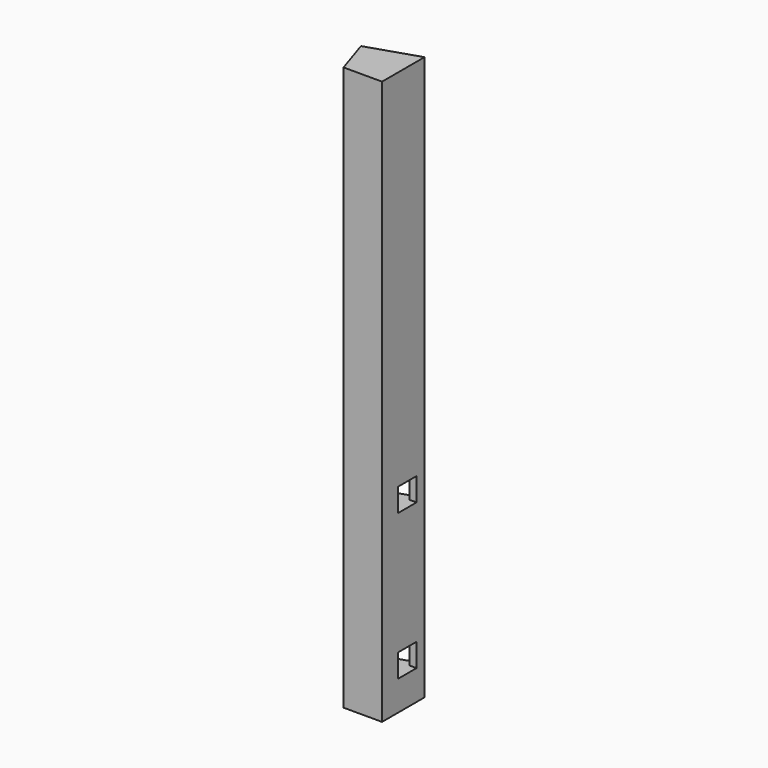
from build123d import *

# Parameters (mm, degrees)
F1_DEPTH = 85
F2_W     = 3.5
F2_H     = 3.5
F3_DEPTH = 3.5
F4_W     = 3.5
F4_H     = 3.5
F5_DEPTH = 3.5


with BuildPart() as f1:
    # F0 (on Top) → F1 (new body)
    with BuildSketch(Plane.XY):
        Polygon((-25, -42.409548), (-25, -34.409548), (-32.608452, -36.881684), (-30.81234, -42.409548), align=None)
    extrude(amount=F1_DEPTH)

    # F2 (on face) → F3 (cut)
    with BuildSketch(Plane.YZ.offset(-25)):
        with Locations((-37.659548, 6.25)):
            Rectangle(F2_W, F2_H)
        with Locations((-37.659548, 28.25)):
            Rectangle(F2_W, F2_H)
    extrude(amount=-F3_DEPTH, mode=Mode.SUBTRACT)

    # F4 (on face) → F5 (cut)
    with BuildSketch(Plane(origin=(7.725425, -23.776413, 0), x_dir=(-0.951057, -0.309017, 0), z_dir=(-0.309017, 0.951057, 0))):
        with Locations((37.659548, 6.25)):
            Rectangle(F4_W, F4_H)
        with Locations((37.659548, 28.25)):
            Rectangle(F4_W, F4_H)
    extrude(amount=-F5_DEPTH, mode=Mode.SUBTRACT)


solid = f1.part
